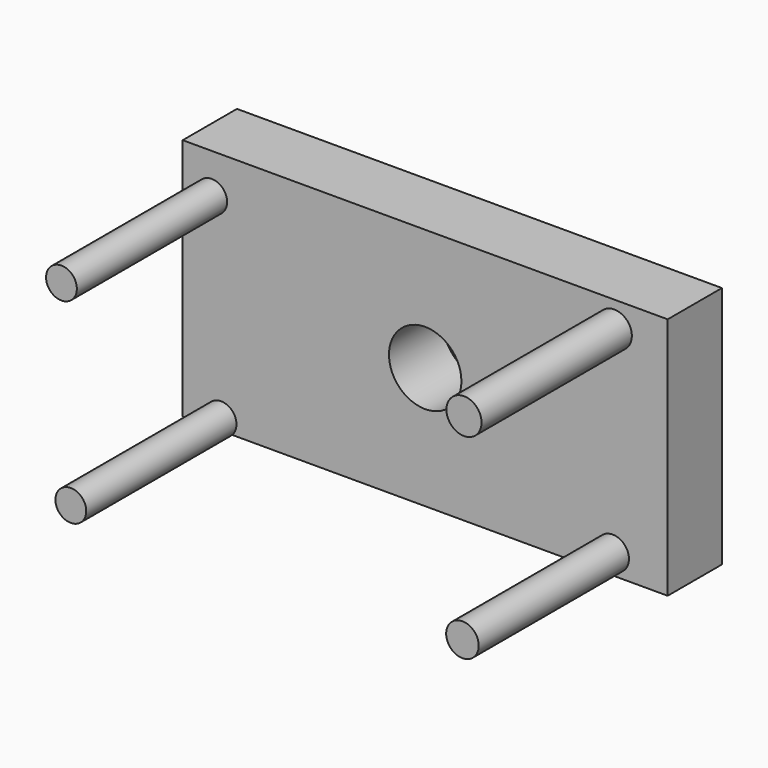
from build123d import *

# Parameters (mm, degrees)
F0_W     = 181.6611289978
F0_H     = 91.1671817303
F0_R     = 31.5386396081
F0_R_2   = 13.5690677721
F1_DEPTH = 25.4
F2_R     = 6.0921672848
F2_R_2   = 6.5757666319
F2_R_3   = 5.7681904181
F2_R_4   = 5.7681885289
F3_DEPTH = 70.358


with BuildPart() as f1:
    # F0 (on Front) → F1 (new body)
    with BuildSketch(Plane.XZ):
        Rectangle(F0_W, F0_H)
        Circle(F0_R, mode=Mode.SUBTRACT)
        Circle(F0_R)
        Circle(F0_R_2, mode=Mode.SUBTRACT)
    extrude(amount=F1_DEPTH)

    # F2 (on face) → F3 (join)
    with BuildSketch(Plane.XZ.offset(25.4)):
        with Locations((70.2395811677, -38.1634384394)):
            Circle(F2_R)
        with Locations((70.8327889442, 35.7618518174)):
            Circle(F2_R_2)
        with Locations((-76.4545202255, -41.5890775621)):
            Circle(F2_R_3)
        with Locations((-79.9627825618, 30.6061375886)):
            Circle(F2_R_4)
    extrude(amount=F3_DEPTH)


solid = f1.part
